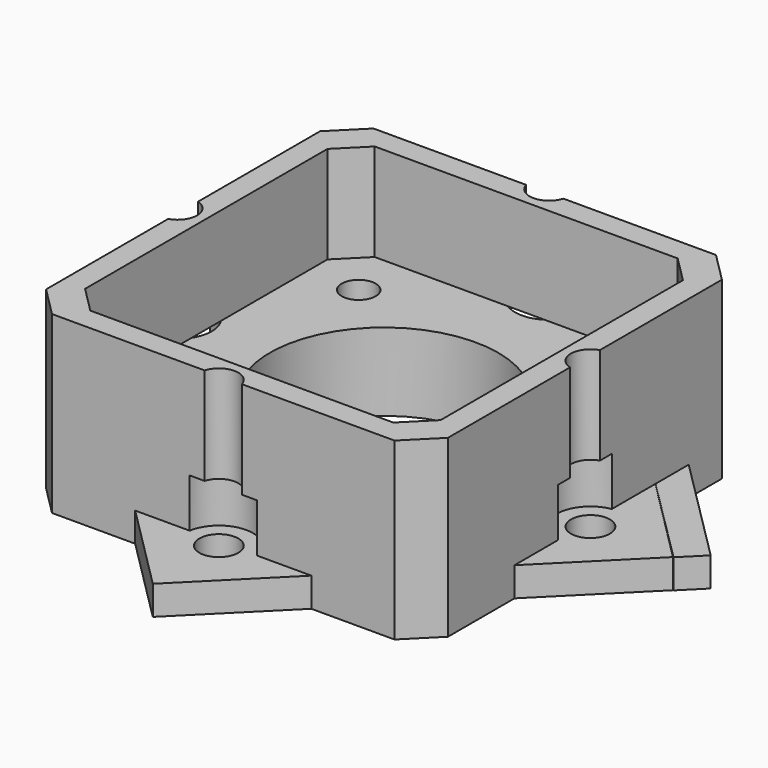
from build123d import *

# Parameters (mm, degrees)
F4_DEPTH  = 18
F2_R      = 1.75
F2_R_2    = 11.75
F5_DEPTH  = 8
F3_R      = 2
F3_R_2    = 1.75
F3_R_3    = 11.75
F6_DEPTH  = 3
F7_DEPTH  = 18
F8_R      = 4.5
F8_R_2    = 1.75
F9_DEPTH  = 5
F10_DEPTH = 5
F11_R     = 3.5
F12_DEPTH = 5
F14_DEPTH = 3
F15_DEPTH = 5
F16_DEPTH = 5
F17_R     = 1.75
F18_DEPTH = 5


with BuildPart() as f4:
    # F1 (on Top) → F4 (new body)
    with BuildSketch(Plane.XY):
        Polygon((-17.5979303911, 20.6482383256), (-20.6482383256, 17.5979303911), (-20.6482383256, -17.5979303911), (-17.5979303911, -20.6482383256), (17.5979303911, -20.6482383256), (20.6482383256, -17.5979303911), (20.6482383256, 17.5979303911), (17.5979303911, 20.6482383256), align=None)
        Polygon((-15.5676494429, -18.266042013), (-18.266042013, -15.5676494429), (-18.266042013, 15.5676494429), (-15.5676494429, 18.266042013), (15.5676494429, 18.266042013), (18.266042013, 15.5676494429), (18.266042013, -15.5676494429), (15.5676494429, -18.266042013), align=None, mode=Mode.SUBTRACT)
    extrude(amount=F4_DEPTH)

    # F2 (on Top) → F5 (join)
    with BuildSketch(Plane.XY):
        Polygon((-15.5676494429, 18.266042013), (-18.266042013, 15.5676494429), (-18.266042013, -15.5676494429), (-15.5676494429, -18.266042013), (15.5676494429, -18.266042013), (18.266042013, -15.5676494429), (18.266042013, 15.5676494429), (15.5676494429, 18.266042013), align=None)
        with Locations((-13, -13)):
            Circle(F2_R, mode=Mode.SUBTRACT)
        with Locations((13, -13)):
            Circle(F2_R, mode=Mode.SUBTRACT)
        with Locations((-13, 13)):
            Circle(F2_R, mode=Mode.SUBTRACT)
        Circle(F2_R_2, mode=Mode.SUBTRACT)
        with Locations((13, 13)):
            Circle(F2_R, mode=Mode.SUBTRACT)
    extrude(amount=F5_DEPTH)

    # F3 (on Top) → F6 (join)
    with BuildSketch(Plane.XY):
        Polygon((-29.6984848098, 0), (0, -29.6984848098), (29.6984848098, 0), (0, 29.6984848098), align=None)
        with Locations((0, -21.2132034356)):
            Circle(F3_R, mode=Mode.SUBTRACT)
        with Locations((-13, -13)):
            Circle(F3_R_2, mode=Mode.SUBTRACT)
        with Locations((13, -13)):
            Circle(F3_R_2, mode=Mode.SUBTRACT)
        with Locations((-21.2132034356, 0)):
            Circle(F3_R, mode=Mode.SUBTRACT)
        Circle(F3_R_3, mode=Mode.SUBTRACT)
        with Locations((-13, 13)):
            Circle(F3_R_2, mode=Mode.SUBTRACT)
        with Locations((0, 21.2132034356)):
            Circle(F3_R, mode=Mode.SUBTRACT)
        with Locations((13, 13)):
            Circle(F3_R_2, mode=Mode.SUBTRACT)
        with Locations((21.2132034356, 0)):
            Circle(F3_R, mode=Mode.SUBTRACT)
    extrude(amount=F6_DEPTH)

    # F3 (on Top) → F7 (cut)
    with BuildSketch(Plane.XY):
        with Locations((21.2132034356, 0)):
            Circle(F3_R)
        with Locations((0, 21.2132034356)):
            Circle(F3_R)
        with Locations((0, -21.2132034356)):
            Circle(F3_R)
        with Locations((-21.2132034356, 0)):
            Circle(F3_R)
    extrude(amount=F7_DEPTH, mode=Mode.SUBTRACT)

    # F8 (on face) + F2 (on Top) → F9 (cut)
    with BuildSketch(Plane(origin=(0, 0, 0), x_dir=(1, 0, 0), z_dir=(0, 0, -1))):
        with Locations((-13, -13)):
            Circle(F8_R)
        with Locations((-13, -13)):
            Circle(F8_R_2, mode=Mode.SUBTRACT)
    with BuildSketch(Plane.XY):
        with Locations((-13, 13)):
            Circle(F2_R)
    extrude(amount=-F9_DEPTH, dir=(0, 0, -1), mode=Mode.SUBTRACT)

    # F8 (on face) + F2 (on Top) → F10 (cut)
    with BuildSketch(Plane(origin=(0, 0, 0), x_dir=(1, 0, 0), z_dir=(0, 0, -1))):
        with Locations((13, 13)):
            Circle(F8_R)
        with Locations((13, 13)):
            Circle(F8_R_2, mode=Mode.SUBTRACT)
    with BuildSketch(Plane.XY):
        with Locations((13, -13)):
            Circle(F2_R)
    extrude(amount=-F10_DEPTH, dir=(0, 0, -1), mode=Mode.SUBTRACT)

    # F11 (on face) → F12 (cut)
    with BuildSketch(Plane.XY.offset(3)):
        with Locations((0, 21.2132034356)):
            Circle(F11_R)
        with Locations((0, -21.2132034356)):
            Circle(F11_R)
        with Locations((21.2132034356, 0)):
            Circle(F11_R)
        with Locations((-21.2132034356, 0)):
            Circle(F11_R)
    extrude(amount=F12_DEPTH, mode=Mode.SUBTRACT)

    # F13 (on face) → F14 (join)
    with BuildSketch(Plane.XY):
        Polygon((13.4627325878, 20.5004686409), (2.1524152157, 31.7889230696), (0.030988478, 29.6674963319), (9.1980161689, 20.5004686409), align=None)
        Polygon((31.875104401, 2.1236881052), (20.4795914376, 13.4971734413), (20.4795914376, 9.2360144303), (29.7514162958, 0), align=None)
    extrude(amount=F14_DEPTH)

    # F8 (on face) → F15 (cut)
    with BuildSketch(Plane(origin=(0, 0, 0), x_dir=(1, 0, 0), z_dir=(0, 0, -1))):
        with Locations((13, -13)):
            Circle(F8_R)
        with Locations((13, -13)):
            Circle(F8_R_2, mode=Mode.SUBTRACT)
    extrude(amount=-F15_DEPTH, mode=Mode.SUBTRACT)

    # F8 (on face) → F16 (cut)
    with BuildSketch(Plane(origin=(0, 0, 0), x_dir=(1, 0, 0), z_dir=(0, 0, -1))):
        with Locations((-13, 13)):
            Circle(F8_R)
        with Locations((-13, 13)):
            Circle(F8_R_2, mode=Mode.SUBTRACT)
    extrude(amount=-F16_DEPTH, mode=Mode.SUBTRACT)

    # F17 (on face) → F18 (cut)
    with BuildSketch(Plane(origin=(19.1230843583, 19.1230843583, 0), x_dir=(-0.7071067812, 0.7071067812, 0), z_dir=(0.7071067812, 0.7071067812, 0))):
        with Locations((33.1568941474, 3.2000013161)):
            Circle(F17_R)
        with Locations((33.1568941474, 16.7999986839)):
            Circle(F17_R)
        with Locations((-33.1568941474, 16.7999986839)):
            Circle(F17_R)
        with Locations((-33.1568941474, 3.2000013161)):
            Circle(F17_R)
    extrude(amount=-F18_DEPTH, mode=Mode.SUBTRACT)


solid = f4.part
